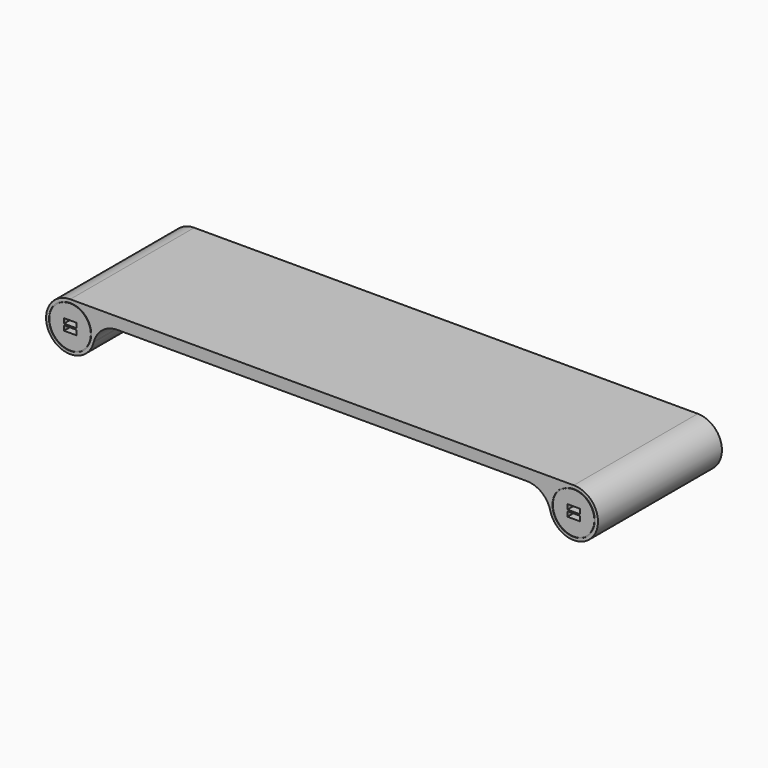
from build123d import *

# Parameters (mm, degrees)
F1_DEPTH = 160
F2_R     = 22
F2_R_2   = 21.25
F3_DEPTH = 0.5
F4_W     = 13
F4_H     = 5
F5_DEPTH = 15


with BuildPart() as f1:
    # F0 (on Front) → F1 (new body)
    with BuildSketch(Plane.XZ):
        with BuildLine():
            Line((235.599727, 19.470476), (235.851854, 18.529524))
            ThreePointArc((235.851854, 18.529524), (279.833834, 9.780964), (260, 50))
            Line((260, 50), (0, 50))
            Line((0, 50), (-260, 50))
            ThreePointArc((-260, 50), (-279.833834, 9.780964), (-235.851854, 18.529524))
            Line((-235.851854, 18.529524), (-235.599727, 19.470476))
            ThreePointArc((-235.599727, 19.470476), (-226.670617, 32.833834), (-211.451581, 38))
            Line((-211.451581, 38), (0, 38))
            Line((0, 38), (211.451581, 38))
            ThreePointArc((211.451581, 38), (226.670617, 32.833834), (235.599727, 19.470476))
        make_face()
    extrude(amount=-F1_DEPTH)

    # F2 (on face) → F3 (cut)
    with BuildSketch(Plane.XZ):
        with Locations((260, 25)):
            Circle(F2_R)
        with Locations((260, 25)):
            Circle(F2_R_2, mode=Mode.SUBTRACT)
        with Locations((-260, 25)):
            Circle(F2_R)
        with Locations((-260, 25)):
            Circle(F2_R_2, mode=Mode.SUBTRACT)
    extrude(amount=-F3_DEPTH, mode=Mode.SUBTRACT)

    # F4 (on face) → F5 (cut)
    with BuildSketch(Plane.XZ):
        with Locations((260, 28.25)):
            Rectangle(F4_W, F4_H)
        with Locations((260, 21.75)):
            Rectangle(F4_W, F4_H)
        with Locations((-260, 28.25)):
            Rectangle(F4_W, F4_H)
        with Locations((-260, 21.75)):
            Rectangle(F4_W, F4_H)
    extrude(amount=-F5_DEPTH, mode=Mode.SUBTRACT)


solid = f1.part
